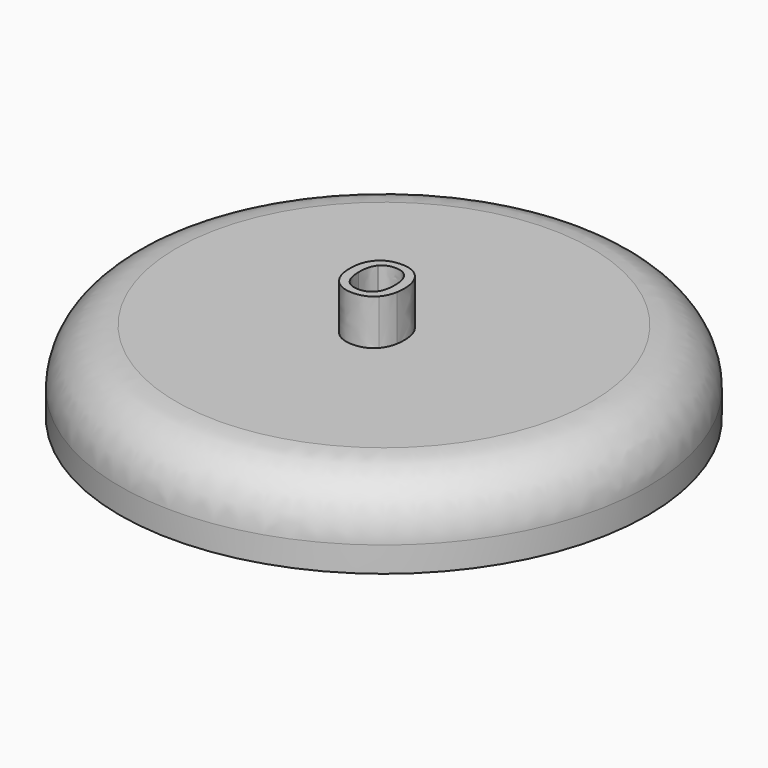
from build123d import *

# Parameters (mm, degrees)
F0_R      = 23.8176620727
F0_R_2    = 20.4464074417
F1_DEPTH  = 3.81
F2_DEPTH  = 3.556
F3_DEPTH  = 3.556
F5_R      = 5.08
F6_SIZE   = 2
F9_R      = 1.5
F12_DEPTH = 4.1


with BuildPart() as f1:
    # F0 (on Top) → F1 (new body)
    with BuildSketch(Plane.XY):
        with Locations((-110.6490343809, 21.0855230689)):
            Circle(F0_R)
        with Locations((-110.6490343809, 21.0855230689)):
            Circle(F0_R_2, mode=Mode.SUBTRACT)
    extrude(amount=-F1_DEPTH)


with BuildPart() as f2:
    # F0 (on Top) → F2 (new body)
    with BuildSketch(Plane.XY):
        with Locations((-110.6490343809, 21.0855230689)):
            Circle(F0_R_2)
    extrude(amount=F2_DEPTH)


with BuildPart() as f3:
    # F0 (on Top) → F3 (new body)
    with BuildSketch(Plane.XY):
        with Locations((-110.6490343809, 21.0855230689)):
            Circle(F0_R)
        with Locations((-110.6490343809, 21.0855230689)):
            Circle(F0_R_2, mode=Mode.SUBTRACT)
    extrude(amount=F3_DEPTH)


with BuildPart() as f1_1:
    add(f1.part)

    # F4: union F2, F3
    add(f2.part)
    add(f3.part)

    # F5
    f5_edges = [f1_1.edges().sort_by_distance(p)[0] for p in [
        (-134.466696, 21.085523, 3.556),
    ]]
    fillet(f5_edges, radius=F5_R)

    # F6
    f6_edges = [f1_1.edges().sort_by_distance(p)[0] for p in [
        (-131.095442, 21.085523, 0),
    ]]
    chamfer(f6_edges, length=F6_SIZE)

    # F11 (on face) → F12 (join)
    with BuildSketch(Plane.XY.offset(3.556)):
        with BuildLine():
            add(Edge.make_bspline(
                [(-112.3472333381, 22.208395905), (-111.6923218171, 22.9368774647), (-110.5309792653, 22.9368774647)],
                knots=[0.0017264962, 0.0017264962, 0.0017264962, 1, 1, 1], degree=2))
            Line((-112.3472333381, 22.208395905), (-111.7074051084, 21.7853325556))
            add(Edge.make_bspline(
                [(-110.5559975679, 22.247310498), (-111.3039935604, 22.247310498), (-111.7074051084, 21.7853325556)],
                knots=[0, 0, 0, 0.9398177205, 0.9398177205, 0.9398177205], degree=2))
            add(Edge.make_bspline(
                [(-109.4699325004, 21.8651616778), (-109.8709274196, 22.247310498), (-110.5559975679, 22.247310498)],
                knots=[0.150922206, 0.150922206, 0.150922206, 1, 1, 1], degree=2))
            Line((-109.4699325004, 21.8651616778), (-108.8357851326, 22.2844687622))
            add(Edge.make_bspline(
                [(-110.5309792653, 22.9368774647), (-109.4826148396, 22.9368774647), (-108.8357851326, 22.2844687622)],
                knots=[0, 0, 0, 0.9337916198, 0.9337916198, 0.9337916198], degree=2))
        make_face()
        with BuildLine():
            add(Edge.make_bspline(
                [(-108.8357851326, 22.2844687622), (-108.789923137, 22.2382112005), (-108.7460797359, 22.1886738512)],
                knots=[0.9337916198, 0.9337916198, 0.9337916198, 1, 1, 1], degree=2))
            Line((-108.8357851326, 22.2844687622), (-109.4699325004, 21.8651616778))
            add(Edge.make_bspline(
                [(-109.3363553139, 21.7172352107), (-109.3986563015, 21.7972353424), (-109.4699325004, 21.8651616778)],
                knots=[0, 0, 0, 0.150922206, 0.150922206, 0.150922206], degree=2))
            add(Edge.make_bspline(
                [(-108.9235533203, 20.1661004467), (-108.9235533203, 21.1871599234), (-109.3363553139, 21.7172352107)],
                knots=[0, 0, 0, 1, 1, 1], degree=2))
            add(Edge.make_bspline(
                [(-108.9284211469, 19.9478296004), (-108.9235533203, 20.0540332643), (-108.9235533203, 20.1661004467)],
                knots=[0.8914082935, 0.8914082935, 0.8914082935, 1, 1, 1], degree=2))
            Line((-108.9284211469, 19.9478296004), (-108.143660581, 19.4289349687))
            add(Edge.make_bspline(
                [(-108.0838765377, 20.1661004467), (-108.0838765377, 19.7714552689), (-108.143660581, 19.4289349687)],
                knots=[0, 0, 0, 0.3011791634, 0.3011791634, 0.3011791634], degree=2))
            add(Edge.make_bspline(
                [(-108.7460797359, 22.1886738512), (-108.0838765377, 21.4404702377), (-108.0838765377, 20.1661004467)],
                knots=[0, 0, 0, 1, 1, 1], degree=2))
        make_face()
        with BuildLine():
            Line((-112.1627655318, 20.0846229192), (-112.9612111267, 19.5566795556))
            add(Edge.make_bspline(
                [(-112.7013170199, 18.6900205905), (-112.8898541973, 19.0816725622), (-112.9612111267, 19.5566795556)],
                knots=[0, 0, 0, 0.6215232964, 0.6215232964, 0.6215232964], degree=2))
            add(Edge.make_bspline(
                [(-111.8413128664, 17.7221250069), (-112.3979701003, 18.0598720926), (-112.7013170199, 18.6900205905)],
                knots=[0, 0, 0, 1, 1, 1], degree=2))
            add(Edge.make_bspline(
                [(-110.5653794314, 17.3843779212), (-111.2846556325, 17.3843779212), (-111.8413128664, 17.7221250069)],
                knots=[0, 0, 0, 1, 1, 1], degree=2))
            add(Edge.make_bspline(
                [(-108.7429524481, 18.1200723834), (-109.4020283584, 17.3843779212), (-110.5653794314, 17.3843779212)],
                knots=[0, 0, 0, 1, 1, 1], degree=2))
            add(Edge.make_bspline(
                [(-108.143660581, 19.4289349687), (-108.282376469, 18.6341910029), (-108.7429524481, 18.1200723834)],
                knots=[0.3011791634, 0.3011791634, 0.3011791634, 1, 1, 1], degree=2))
            Line((-108.143660581, 19.4289349687), (-108.9284211469, 19.9478296004))
            add(Edge.make_bspline(
                [(-109.3363553139, 18.5993292434), (-108.9683801932, 19.0760242862), (-108.9284211469, 19.9478296004)],
                knots=[0, 0, 0, 0.8914082935, 0.8914082935, 0.8914082935], degree=2))
            add(Edge.make_bspline(
                [(-110.5466157045, 18.0645630244), (-109.7491573076, 18.0645630244), (-109.3363553139, 18.5993292434)],
                knots=[0, 0, 0, 1, 1, 1], degree=2))
            add(Edge.make_bspline(
                [(-111.7529669852, 18.6016747093), (-111.3425104574, 18.0645630244), (-110.5466157045, 18.0645630244)],
                knots=[0, 0, 0, 1, 1, 1], degree=2))
            add(Edge.make_bspline(
                [(-112.1627655318, 20.0846229192), (-112.1469896256, 19.1172814787), (-111.7529669852, 18.6016747093)],
                knots=[0.0400380705, 0.0400380705, 0.0400380705, 1, 1, 1], degree=2))
        make_face()
        with BuildLine():
            Line((-111.7074051084, 21.7853325556), (-112.3472333381, 22.208395905))
            add(Edge.make_bspline(
                [(-112.3494971389, 22.2058739343), (-112.3483659959, 22.2071360091), (-112.3472333381, 22.208395905)],
                knots=[0, 0, 0, 0.0017264962, 0.0017264962, 0.0017264962], degree=2))
            add(Edge.make_bspline(
                [(-113.0046639394, 20.1661004467), (-113.0046639394, 21.4748704038), (-112.3494971389, 22.2058739343)],
                knots=[0, 0, 0, 1, 1, 1], degree=2))
            add(Edge.make_bspline(
                [(-112.9612111267, 19.5566795556), (-113.0046639394, 19.8459351347), (-113.0046639394, 20.1661004467)],
                knots=[0.6215232964, 0.6215232964, 0.6215232964, 1, 1, 1], degree=2))
            Line((-112.9612111267, 19.5566795556), (-112.1627655318, 20.0846229192))
            add(Edge.make_bspline(
                [(-112.163423513, 20.1661004467), (-112.163423513, 20.1249687742), (-112.1627655318, 20.0846229192)],
                knots=[0, 0, 0, 0.0400380705, 0.0400380705, 0.0400380705], degree=2))
            add(Edge.make_bspline(
                [(-111.7576579169, 21.7242716083), (-112.163423513, 21.2012327186), (-112.163423513, 20.1661004467)],
                knots=[0, 0, 0, 1, 1, 1], degree=2))
            add(Edge.make_bspline(
                [(-111.7074051084, 21.7853325556), (-111.7332380184, 21.755749281), (-111.7576579169, 21.7242716083)],
                knots=[0.9398177205, 0.9398177205, 0.9398177205, 1, 1, 1], degree=2))
        make_face()
    extrude(amount=F12_DEPTH)


with BuildPart() as f10:
    # F10: sweep along a path in F8
    with BuildLine(Plane.XZ.offset(-21.0855230689)) as f10_path:
        Line((-104.6490343809, 0), (-104.6490343809, -3))
        ThreePointArc((-104.6490343809, -3), (-105.2348208185, -4.4142135624), (-106.6490343809, -5))
        Line((-106.6490343809, -5), (-114.6490343809, -5))
        ThreePointArc((-114.6490343809, -5), (-116.0632479433, -4.4142135624), (-116.6490343809, -3))
        Line((-116.6490343809, -3), (-116.6490343809, 0))
    # F9 (on face) → F10 (sweep)
    with BuildSketch(Plane.XY):
        with Locations((-104.6490343809, 21.0855230689)):
            Circle(F9_R)
    sweep(path=f10_path.line)


solid = Compound([f1_1.part, f10.part])
